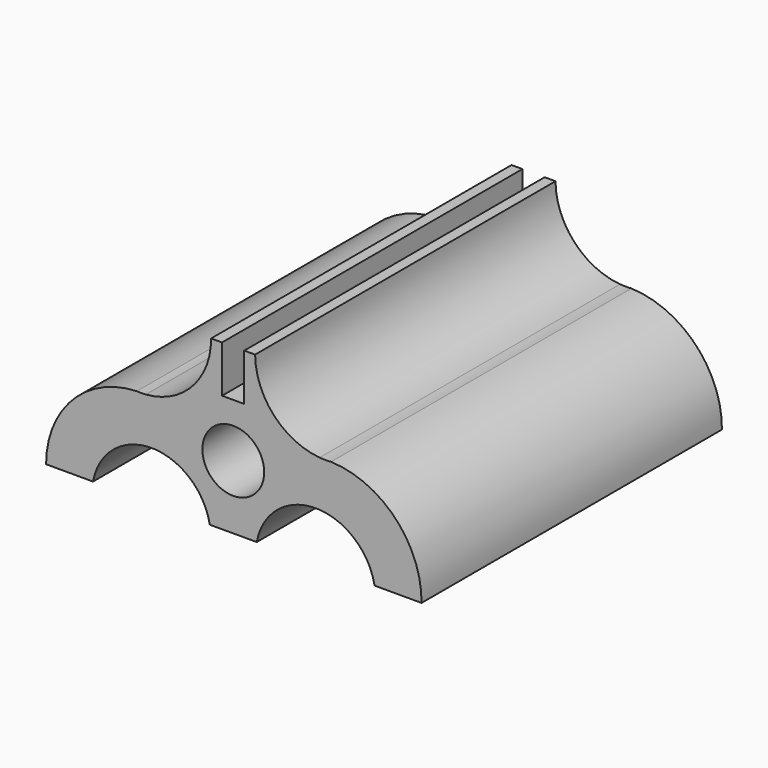
from build123d import *

# Parameters (mm, degrees)
F0_R     = 4.179164
F1_DEPTH = 50.8


with BuildPart() as f1:
    # F0 (on Front) → F1 (new body)
    with BuildSketch(Plane.XZ):
        with BuildLine():
            Line((19.122411, 0), (25.472411, 0))
            ThreePointArc((25.472411, 0), (21.963948, 8.903431), (13.236964, 12.830281))
            ThreePointArc((13.236964, 12.830281), (12.463078, 12.800162), (11.689302, 12.833014))
            ThreePointArc((11.689302, 12.833014), (5.492566, 15.851905), (2.955112, 22.260848))
            Line((2.955112, 22.260848), (1.482388, 22.254298))
            Line((1.482388, 22.254298), (1.482388, 15.904298))
            Line((1.482388, 15.904298), (-1.519368, 15.904298))
            Line((-1.519368, 15.904298), (-1.519368, 22.254298))
            Line((-1.519368, 22.254298), (-2.99887, 22.249819))
            ThreePointArc((-2.99887, 22.249819), (-5.528874, 15.738388), (-11.821297, 12.704404))
            ThreePointArc((-11.821297, 12.704404), (-12.435019, 12.678879), (-13.049111, 12.692965))
            ThreePointArc((-13.049111, 12.692965), (-21.754918, 8.829559), (-25.326452, 0))
            Line((-25.326452, 0), (-18.976452, 0))
            ThreePointArc((-18.976452, 0), (-11.075726, 6.58561), (-3.175, 0))
            Line((-3.175, 0), (0, 0))
            Line((0, 0), (3.175, 0))
            ThreePointArc((3.175, 0), (11.148705, 6.63363), (19.122411, 0))
        make_face()
        with Locations((0, 8.647043)):
            Circle(F0_R, mode=Mode.SUBTRACT)
    extrude(amount=F1_DEPTH)


solid = f1.part
